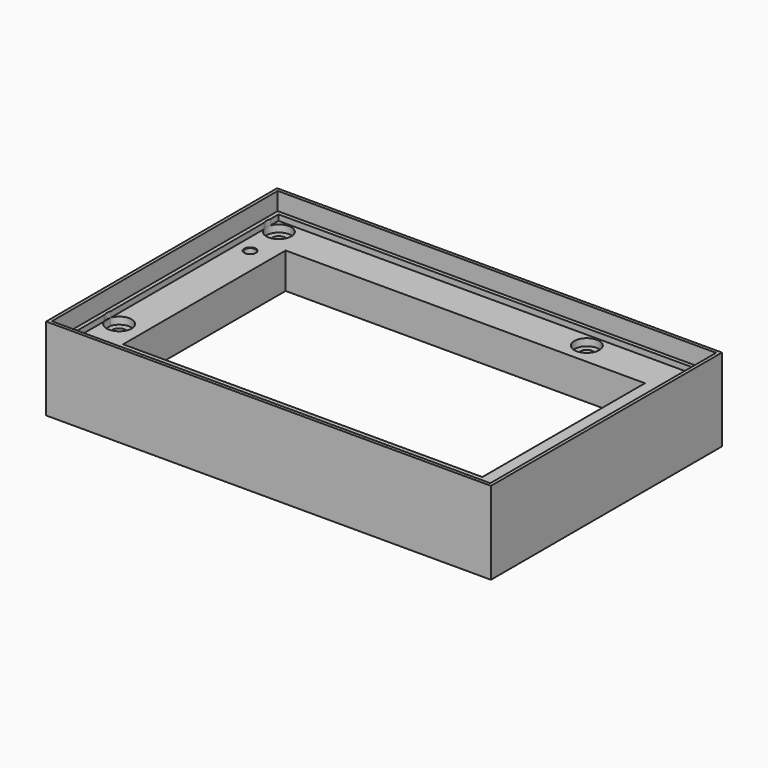
from build123d import *

# Parameters (mm, degrees)
F0_W            = 124.8
F0_H            = 81
F1_DEPTH        = 23.2
F2_W            = 123
F2_H            = 79.2
F3_DEPTH        = 5
F4_W            = 123
F4_H            = 79.2
F5_DEPTH        = 5
F6_W            = 120.8
F6_H            = 77
F7_DEPTH        = 1.6
F8_W            = 120.8
F8_H            = 77
F9_DEPTH        = 1.6
F10_W           = 100.8
F10_H           = 57
F11_DEPTH       = 16.601
F13_R           = 3.5
F14_DEPTH       = 6.601
F15_DEPTH       = 2
F12_R           = 1.8
F16_DEPTH       = 16.601
F17_R           = 1.8
F19_DEPTH       = 16.601
F18_R           = 3.5
F20_DEPTH       = 2
F21_R           = 1.8
F23_DEPTH       = 16.601
F22_R           = 1.8
F24_DEPTH       = 2
F22_R_2         = 3.5
F25_DEPTH       = 25
F27_D           = 3
F27_CSINK_D     = 3.28
F27_CSINK_ANGLE = 90


with BuildPart() as f1:
    # F0 (on Top) → F1 (new body)
    with BuildSketch(Plane.XY):
        Rectangle(F0_W, F0_H)
    extrude(amount=F1_DEPTH)

    # F2 (on face) → F3 (cut)
    with BuildSketch(Plane.XY.offset(23.2)):
        Rectangle(F2_W, F2_H)
    extrude(amount=-F3_DEPTH, mode=Mode.SUBTRACT)

    # F4 (on face) → F5 (cut)
    with BuildSketch(Plane(origin=(0, 0, 0), x_dir=(1, 0, 0), z_dir=(0, 0, -1))):
        Rectangle(F4_W, F4_H)
    extrude(amount=-F5_DEPTH, mode=Mode.SUBTRACT)

    # F6 (on face) → F7 (cut)
    with BuildSketch(Plane.XY.offset(18.2)):
        Rectangle(F6_W, F6_H)
    extrude(amount=-F7_DEPTH, mode=Mode.SUBTRACT)

    # F8 (on face) → F9 (cut)
    with BuildSketch(Plane(origin=(0, 0, 5), x_dir=(1, 0, 0), z_dir=(0, 0, -1))):
        Rectangle(F8_W, F8_H)
    extrude(amount=-F9_DEPTH, mode=Mode.SUBTRACT)

    # F10 (on face) → F11 (cut, through all)
    with BuildSketch(Plane(origin=(0, 0, 6.6), x_dir=(1, 0, 0), z_dir=(0, 0, -1))):
        Rectangle(F10_W, F10_H)
    extrude(amount=-F11_DEPTH, mode=Mode.SUBTRACT)

    # F13 (on face) → F14 (cut, through all)
    with BuildSketch(Plane.XY.offset(16.6)):
        with Locations((-57.1, 34.5)):
            Circle(F13_R)
    extrude(amount=F14_DEPTH, mode=Mode.SUBTRACT)

    # F13 (on face) → F15 (cut)
    with BuildSketch(Plane.XY.offset(16.6)):
        with Locations((-57.1, 34.5)):
            Circle(F13_R)
    extrude(amount=-F15_DEPTH, mode=Mode.SUBTRACT)

    # F12 (on face) → F16 (cut, through all)
    with BuildSketch(Plane.XY.offset(16.6)):
        with Locations((-57.1, 34.5)):
            Circle(F12_R)
    extrude(amount=-F16_DEPTH, mode=Mode.SUBTRACT)

    # F17 (on face) → F19 (cut, through all)
    with BuildSketch(Plane.XY.offset(16.6)):
        with Locations((29.3, 34.5)):
            Circle(F17_R)
    extrude(amount=-F19_DEPTH, mode=Mode.SUBTRACT)

    # F18 (on face) → F20 (cut)
    with BuildSketch(Plane.XY.offset(16.6)):
        with Locations((29.3, 34.5)):
            Circle(F18_R)
    extrude(amount=-F20_DEPTH, mode=Mode.SUBTRACT)

    # F21 (on face) → F23 (cut, through all)
    with BuildSketch(Plane.XY.offset(16.6)):
        with Locations((-57.1, -21.5)):
            Circle(F21_R)
    extrude(amount=-F23_DEPTH, mode=Mode.SUBTRACT)

    # F22 (on face) → F24 (cut)
    with BuildSketch(Plane.XY.offset(16.6)):
        with BuildLine():
            ThreePointArc((-60.4, -22.666190379), (-56.5083920217, -24.9496376621), (-53.6, -21.5))
            ThreePointArc((-53.6, -21.5), (-56.5083920217, -18.0503623379), (-60.4, -20.333809621))
            Line((-60.4, -20.333809621), (-60.4, -22.666190379))
        make_face()
        with Locations((-57.1, -21.5)):
            Circle(F22_R, mode=Mode.SUBTRACT)
    extrude(amount=-F24_DEPTH, mode=Mode.SUBTRACT)

    # F22 (on face) → F25 (cut)
    with BuildSketch(Plane.XY.offset(16.6)):
        with Locations((-57.1, -21.5)):
            Circle(F22_R_2)
    extrude(amount=F25_DEPTH, mode=Mode.SUBTRACT)

    # F27 (through all)
    with Locations(Plane.XY.offset(16.6)):
        with Locations((56.4, 13.5), (56.4, -34.5), (9.1, -34.5), (-11.06, -34.5), (-56.4, -34.5), (-56.4, 23.54)):
            CounterSinkHole(F27_D / 2, F27_CSINK_D / 2, counter_sink_angle=F27_CSINK_ANGLE)


solid = f1.part
